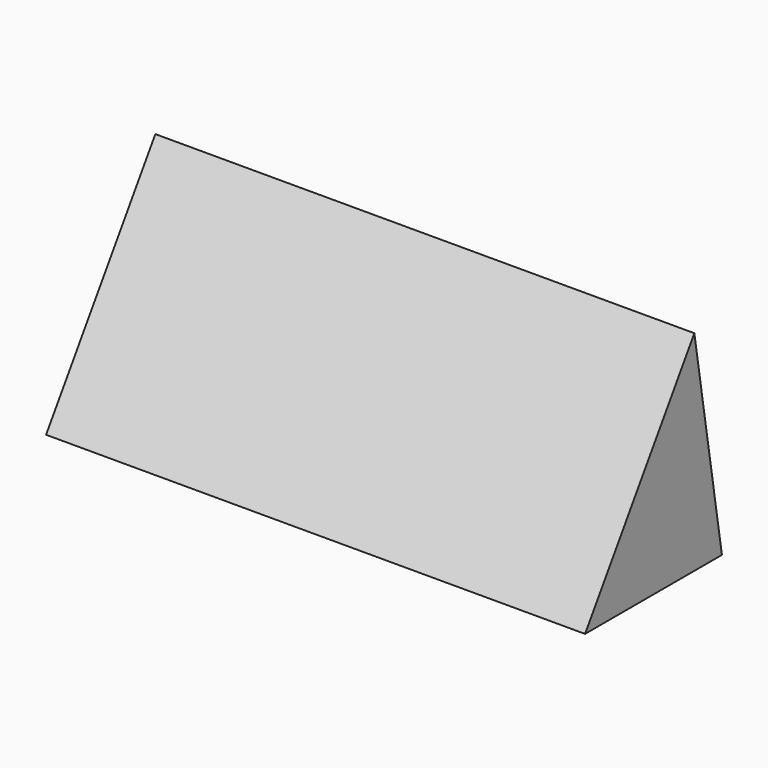
from build123d import *

# Parameters (mm, degrees)
F2_DEPTH = 166.022509


with BuildPart() as f2:
    # F1 (on face) → F2 (new body)
    with BuildSketch(Plane.YZ):
        Polygon((0, 53.237438), (-42.063199, -11.203371), (10.617837, -11.203371), align=None)
    extrude(amount=F2_DEPTH)


solid = f2.part
